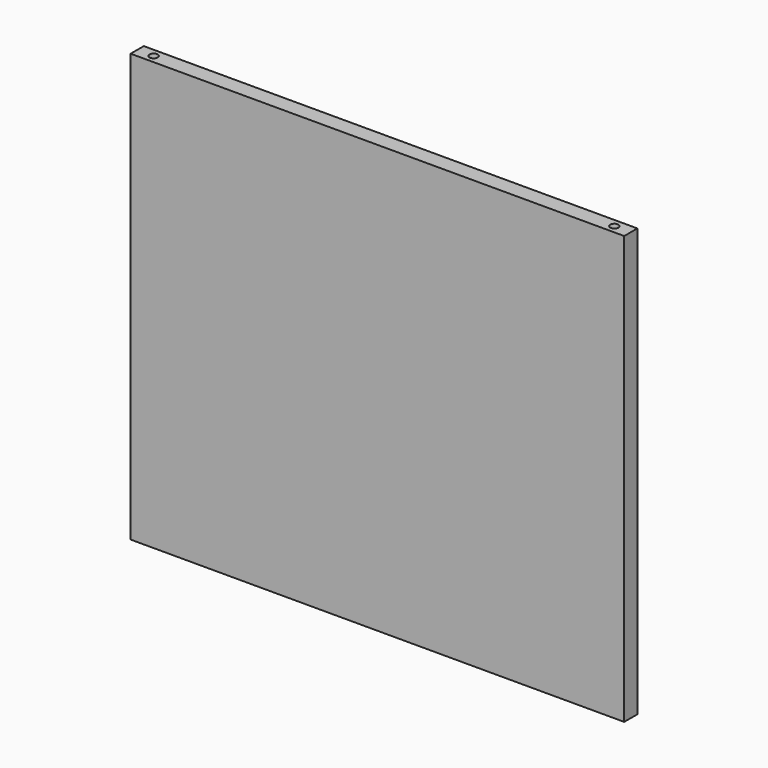
from build123d import *

# Parameters (mm, degrees)
F0_W     = 381
F0_H     = 330.2
F1_DEPTH = 12.7
F3_D     = 6.35


with BuildPart() as f1:
    # F0 (on Front) → F1 (new body)
    with BuildSketch(Plane.XZ):
        with Locations((27.32517, 6.126488)):
            Rectangle(F0_W, F0_H)
    extrude(amount=F1_DEPTH)

    # F3 (through all)
    with Locations(Plane.XY.offset(171.226488)):
        with Locations((-150.47483, -6.35), (205.12517, -6.35)):
            Hole(F3_D / 2)


solid = f1.part
